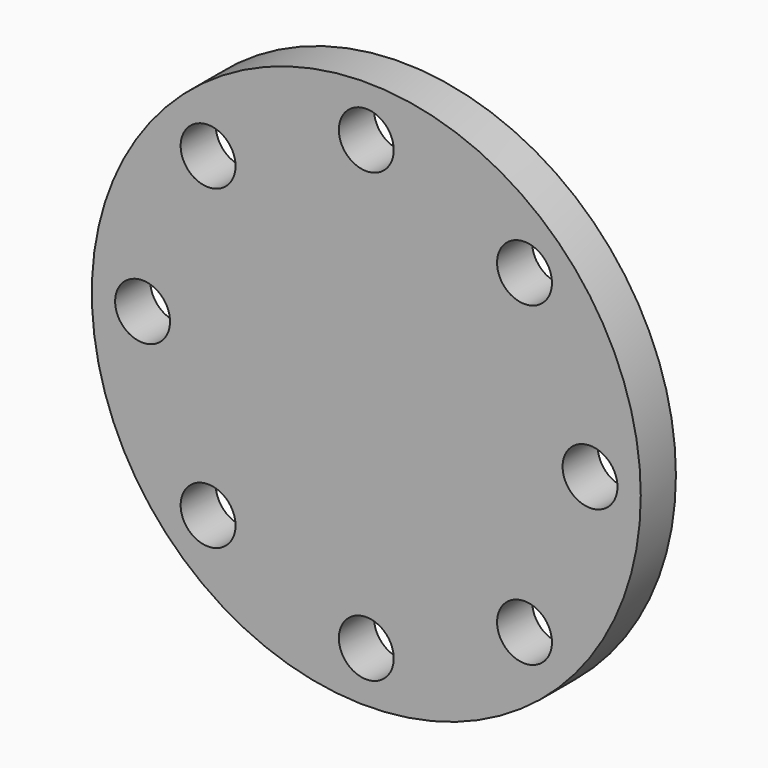
from build123d import *

# Parameters (mm, degrees)
F0_R     = 50
F0_R_2   = 5
F1_DEPTH = 8


with BuildPart() as f1:
    # F0 (on Front) → F1 (new body)
    with BuildSketch(Plane.XZ):
        Circle(F0_R)
        with Locations((-28.817309, -28.817309)):
            Circle(F0_R_2, mode=Mode.SUBTRACT)
        with Locations((0, -40.753829)):
            Circle(F0_R_2, mode=Mode.SUBTRACT)
        with Locations((28.817309, -28.817309)):
            Circle(F0_R_2, mode=Mode.SUBTRACT)
        with Locations((-40.753829, 0)):
            Circle(F0_R_2, mode=Mode.SUBTRACT)
        with Locations((-28.817309, 28.817309)):
            Circle(F0_R_2, mode=Mode.SUBTRACT)
        with Locations((40.753829, 0)):
            Circle(F0_R_2, mode=Mode.SUBTRACT)
        with Locations((0, 40.753829)):
            Circle(F0_R_2, mode=Mode.SUBTRACT)
        with Locations((28.817309, 28.817309)):
            Circle(F0_R_2, mode=Mode.SUBTRACT)
    extrude(amount=F1_DEPTH)


solid = f1.part
